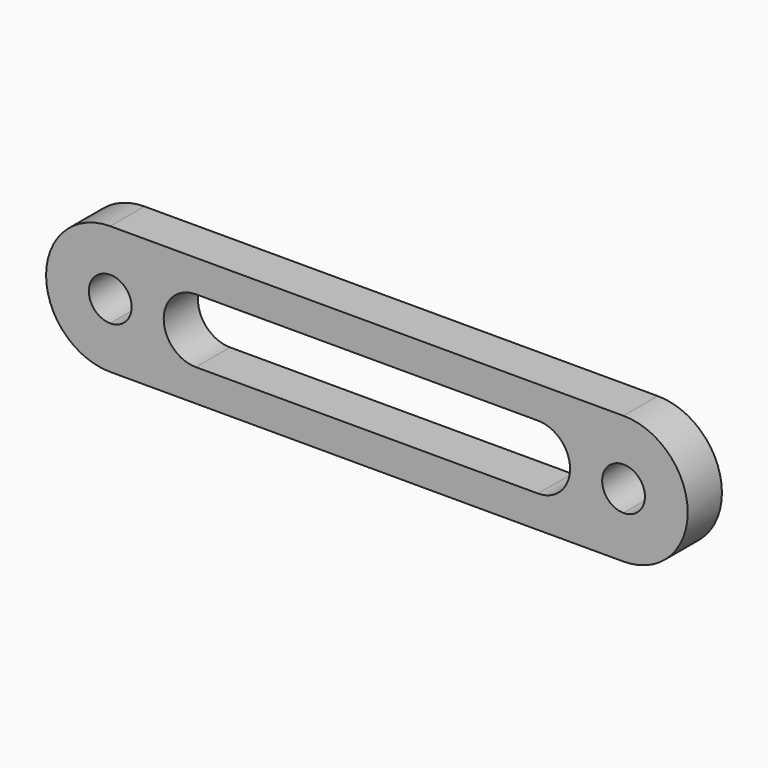
from build123d import *

# Parameters (mm, degrees)
F1_DEPTH = 6.35


with BuildPart() as f1:
    # F0 (on Front) → F1 (new body)
    with BuildSketch(Plane.XZ):
        with BuildLine():
            Line((38.1, 3.175), (38.1, 9.525))
            Line((38.1, 9.525), (-38.1, 9.525))
            Line((-38.1, 9.525), (-38.1, 3.175))
            ThreePointArc((-38.1, 3.175), (-35.854936, 2.245064), (-34.925, 0))
            ThreePointArc((-34.925, 0), (-35.854936, -2.245064), (-38.1, -3.175))
            Line((-38.1, -3.175), (-38.1, -9.525))
            Line((-38.1, -9.525), (38.1, -9.525))
            Line((38.1, -9.525), (38.1, -3.175))
            ThreePointArc((38.1, -3.175), (34.925, 0), (38.1, 3.175))
        make_face()
        with BuildLine():
            Line((-25.4, 4.7625), (25.4, 4.7625))
            ThreePointArc((25.4, 4.7625), (30.1625, 0), (25.4, -4.7625))
            Line((25.4, -4.7625), (-25.4, -4.7625))
            ThreePointArc((-25.4, -4.7625), (-30.1625, 0), (-25.4, 4.7625))
        make_face(mode=Mode.SUBTRACT)
        with BuildLine():
            Line((-38.1, 3.175), (-38.1, 9.525))
            ThreePointArc((-38.1, 9.525), (-47.625, 0), (-38.1, -9.525))
            Line((-38.1, -9.525), (-38.1, -3.175))
            ThreePointArc((-38.1, -3.175), (-41.275, 0), (-38.1, 3.175))
        make_face()
        with BuildLine():
            ThreePointArc((38.1, -9.525), (47.625, 0), (38.1, 9.525))
            Line((38.1, 9.525), (38.1, 3.175))
            ThreePointArc((38.1, 3.175), (40.345064, 2.245064), (41.275, 0))
            ThreePointArc((41.275, 0), (40.345064, -2.245064), (38.1, -3.175))
            Line((38.1, -3.175), (38.1, -9.525))
        make_face()
    extrude(amount=F1_DEPTH)


solid = f1.part
